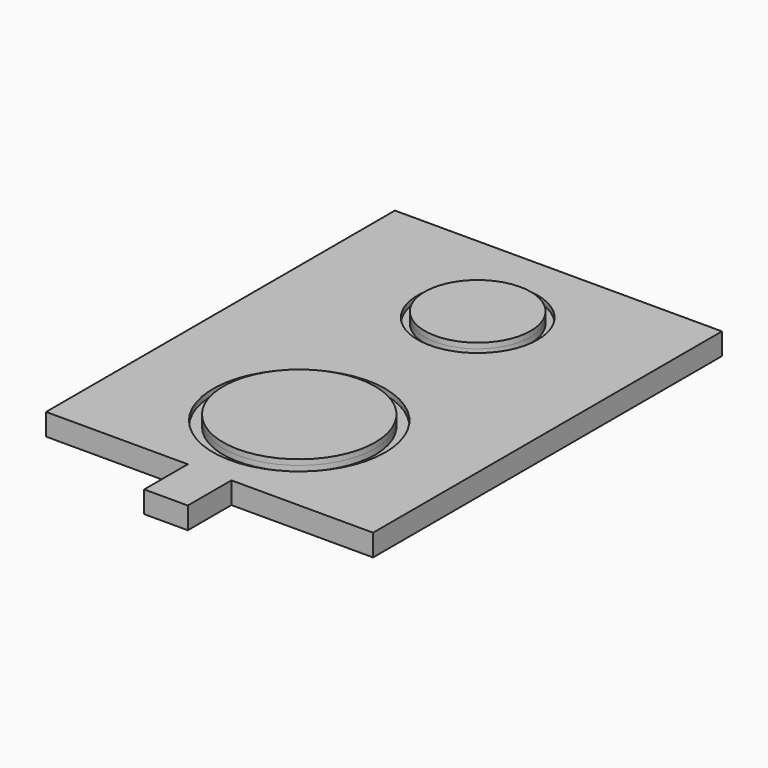
from build123d import *

# Parameters (mm, degrees)
F0_W      = 76.2
F0_H      = 101.6
F1_DEPTH  = 5.08
F3_DEPTH  = 12.7
F5_W      = 28.40757
F5_H      = 35.40796
F6_DEPTH  = 12.7
F7_W      = 26.397034
F7_H      = 11.054433
F8_DEPTH  = 32.004
F9_R      = 13.992109
F9_R_2    = 12.352163
F11_DEPTH = 1.27
F10_R     = 12.352163
F12_DEPTH = 1.27
F9_R_3    = 20.06642
F9_R_4    = 17.699538
F13_DEPTH = 1.27
F14_DEPTH = 1.27


with BuildPart() as f1:
    # F0 (on Top) → F1 (new body)
    with BuildSketch(Plane.XY):
        Rectangle(F0_W, F0_H)
    extrude(amount=F1_DEPTH)

    # F2 (on face) → F3 (join)
    with BuildSketch(Plane.XZ.offset(50.8)):
        Polygon((-5.08, 0), (0, 0), (5.08, 0), (5.08, 5.08), (-5.08, 5.08), align=None)
    extrude(amount=F3_DEPTH)

    # F5 (on face) → F6 (join)
    with BuildSketch(Plane(origin=(0, 0, 0), x_dir=(1, 0, 0), z_dir=(0, 0, -1))):
        Rectangle(F5_W, F5_H)
    extrude(amount=F6_DEPTH)

    # F7 (on face) → F8 (cut)
    with BuildSketch(Plane.XZ.offset(17.70398)):
        with Locations((0, -5.527216)):
            Rectangle(F7_W, F7_H)
    extrude(amount=-F8_DEPTH, mode=Mode.SUBTRACT)

    # F9 (on face) → F11 (cut)
    with BuildSketch(Plane.XY.offset(5.08)):
        with Locations((0, 27.292691)):
            Circle(F9_R)
        with Locations((0, 27.292691)):
            Circle(F9_R_2, mode=Mode.SUBTRACT)
    extrude(amount=-F11_DEPTH, mode=Mode.SUBTRACT)

    # F10 (on face) → F12 (join)
    with BuildSketch(Plane.XY.offset(5.08)):
        with Locations((0, 27.292691)):
            Circle(F10_R)
    extrude(amount=F12_DEPTH)

    # F9 (on face) → F13 (cut)
    with BuildSketch(Plane.XY.offset(5.08)):
        with Locations((0, -24.695374)):
            Circle(F9_R_3)
        with Locations((0, -24.695374)):
            Circle(F9_R_4, mode=Mode.SUBTRACT)
    extrude(amount=-F13_DEPTH, mode=Mode.SUBTRACT)

    # F9 (on face) → F14 (join)
    with BuildSketch(Plane.XY.offset(5.08)):
        with Locations((0, -24.695374)):
            Circle(F9_R_4)
    extrude(amount=F14_DEPTH)


solid = f1.part
